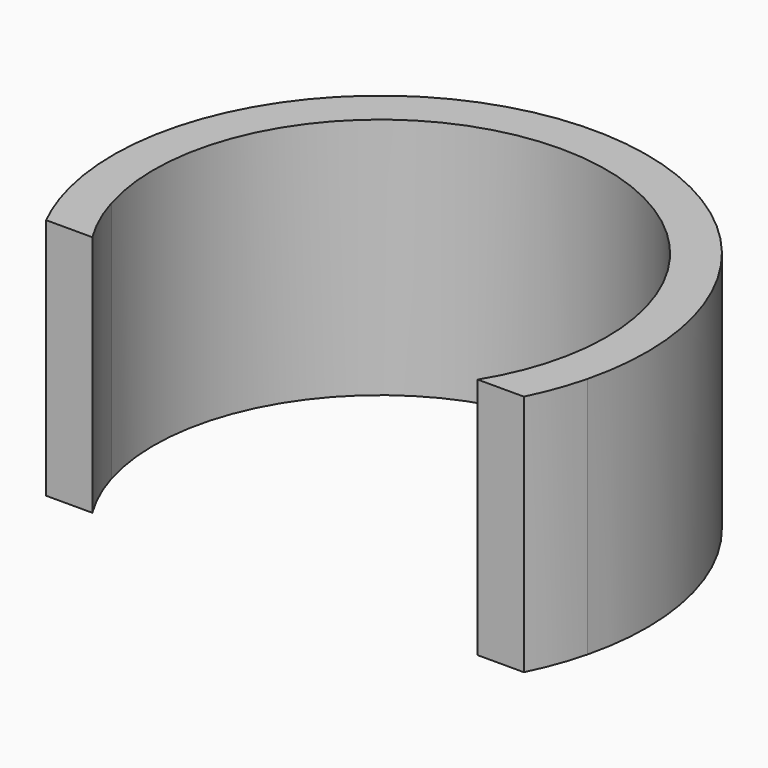
from build123d import *

# Parameters (mm, degrees)
F1_DEPTH = 15


with BuildPart() as f1:
    # F0 (on Top) → F1 (new body)
    with BuildSketch(Plane.XY):
        with BuildLine():
            ThreePointArc((-13.416408, -4), (0, 14), (13.416408, -4))
            ThreePointArc((13.416408, -4), (12.774857, -5.727392), (11.911998, -7.355563))
            Line((11.911998, -7.355563), (14.769756, -7.355563))
            ThreePointArc((14.769756, -7.355563), (15.479974, -5.711427), (16.007811, -4))
            ThreePointArc((16.007811, -4), (0, 16.5), (-16.007811, -4))
            ThreePointArc((-16.007811, -4), (-15.479974, -5.711427), (-14.769756, -7.355563))
            Line((-14.769756, -7.355563), (-11.911998, -7.355563))
            ThreePointArc((-11.911998, -7.355563), (-12.774857, -5.727392), (-13.416408, -4))
        make_face()
    extrude(amount=F1_DEPTH)


solid = f1.part
